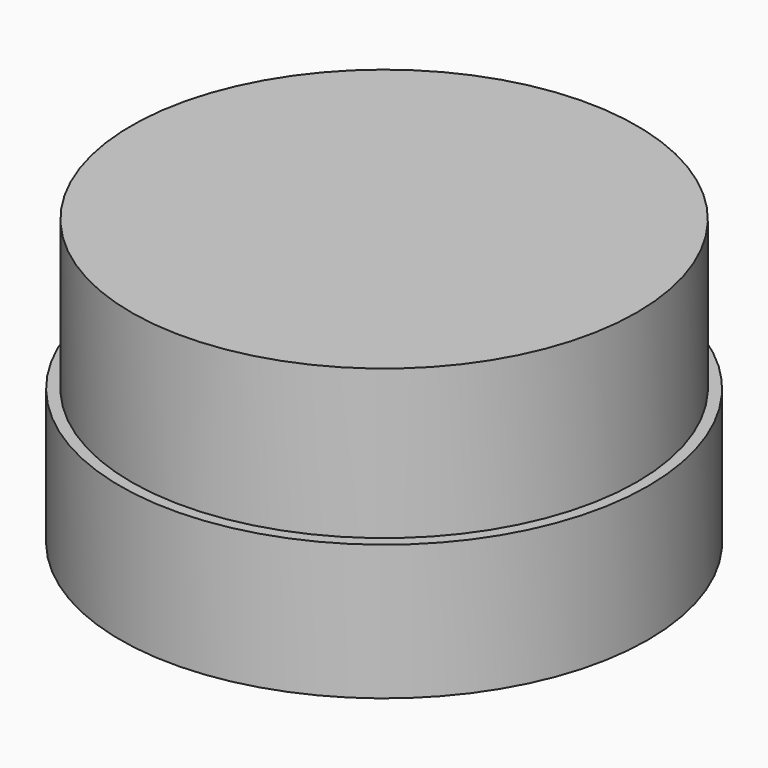
from build123d import *

# Parameters (mm, degrees)
SKETCH_R           = 37.85
PAD_DEPTH          = 19.4
SKETCH001_R        = 36.25
PAD001_DEPTH       = 21.4
POCKET_DEPTH       = 50
SKETCH003_R        = 1.5
POCKET001_DEPTH    = 5
POLARPATTERN_COUNT = 4


with BuildPart() as part:
    # Sketch → Pad (new body)
    with BuildSketch(Plane.XY):
        Circle(SKETCH_R)
    extrude(amount=PAD_DEPTH)

    # Sketch001 (on Face3 of Pad) → Pad001 (join)
    with BuildSketch(Plane.XY.offset(19.4)):
        Circle(SKETCH001_R)
    extrude(amount=PAD001_DEPTH)

    # Sketch002 → Pocket (cut)
    with BuildSketch(Plane.XZ):
        with BuildLine():
            ThreePointArc((-16.437559, 37.3), (-22.937559, 30.8), (-16.437559, 24.3))
            Line((-16.437559, 24.3), (17.562441, 24.3))
            ThreePointArc((17.562441, 24.3), (24.062441, 30.8), (17.562441, 37.3))
            Line((-16.437559, 37.3), (17.562441, 37.3))
        make_face()
    extrude(amount=-POCKET_DEPTH, mode=Mode.SUBTRACT)

    # Sketch003 (on Face2 of Pocket) → Pocket001 (cut)
    with BuildSketch(Plane(origin=(0, 0, 0), x_dir=(1, 0, 0), z_dir=(0, 0, -1))):
        with Locations((-12.5, 12.5)):
            Circle(SKETCH003_R)
    pocket001 = extrude(amount=-POCKET001_DEPTH, mode=Mode.SUBTRACT)

    # PolarPattern: Pocket001 ×4 about axis
    polarpattern_axis = Axis((0, 0, 0), (0, 0, -1))
    for i in range(1, POLARPATTERN_COUNT):
        add(pocket001.rotate(polarpattern_axis, i * 360 / POLARPATTERN_COUNT), mode=Mode.SUBTRACT)


solid = part.part
